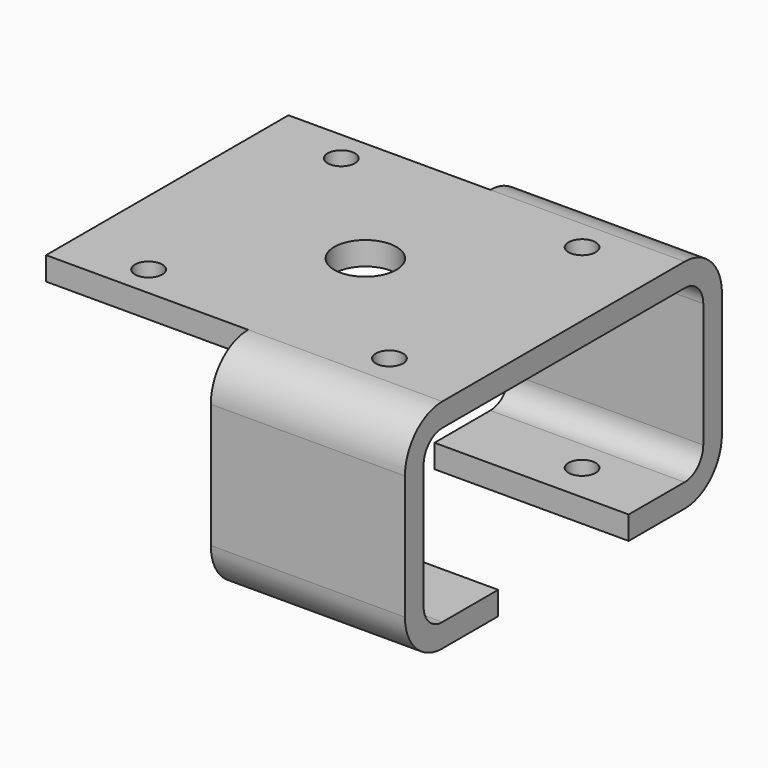
from build123d import *

# Parameters (mm, degrees)
F1_DEPTH = 3
F2_W     = 3
F2_H     = 25
F3_DEPTH = 25
F4_W     = 3
F4_H     = 25
F5_DEPTH = 25
F6_W     = 25
F6_H     = 15
F7_DEPTH = 3
F8_W     = 25
F8_H     = 15
F9_DEPTH = 3
F11_D    = 3.5
F13_D    = 8
F14_R    = 3
F15_R    = 6


with BuildPart() as f1:
    # F0 (on Top) → F1 (new body)
    with BuildSketch(Plane.XY):
        Polygon((-25, 0), (0, 0), (0, 51), (-25, 51), (-25, 45), (-51, 45), (-51, 6), (-25, 6), align=None)
    extrude(amount=F1_DEPTH)

    # F2 (on Right) → F3 (join)
    with BuildSketch(Plane.YZ):
        with Locations((1.5, -12.5)):
            Rectangle(F2_W, F2_H)
    extrude(amount=-F3_DEPTH)

    # F4 (on Right) → F5 (join)
    with BuildSketch(Plane.YZ):
        with Locations((49.5, -12.5)):
            Rectangle(F4_W, F4_H)
    extrude(amount=-F5_DEPTH)

    # F6 (on face) → F7 (join)
    with BuildSketch(Plane(origin=(0, 0, -25), x_dir=(1, 0, 0), z_dir=(0, 0, -1))):
        with Locations((-12.5, -7.5)):
            Rectangle(F6_W, F6_H)
    extrude(amount=-F7_DEPTH)

    # F8 (on face) → F9 (join)
    with BuildSketch(Plane(origin=(0, 0, -25), x_dir=(1, 0, 0), z_dir=(0, 0, -1))):
        with Locations((-12.5, -43.5)):
            Rectangle(F8_W, F8_H)
    extrude(amount=-F9_DEPTH)

    # F11 (through all)
    with Locations(Plane.XY.offset(3)):
        with Locations((-41, 41), (-10, 41), (-10, 10), (-41, 10)):
            Hole(F11_D / 2)

    # F13 (through all)
    with Locations(Plane.XY.offset(3)):
        with Locations((-25.5, 25.5)):
            Hole(F13_D / 2)

    # F14
    f14_edges = [f1.edges().sort_by_distance(p)[0] for p in [
        (-12.5, 3, 0),
        (-12.5, 48, 0),
        (-12.5, 48, -22),
        (-12.5, 3, -22),
    ]]
    fillet(f14_edges, radius=F14_R)

    # F15
    f15_edges = [f1.edges().sort_by_distance(p)[0] for p in [
        (-12.5, 0, 3),
        (-12.5, 0, -25),
        (-12.5, 51, 3),
        (-12.5, 51, -25),
    ]]
    fillet(f15_edges, radius=F15_R)


solid = f1.part
